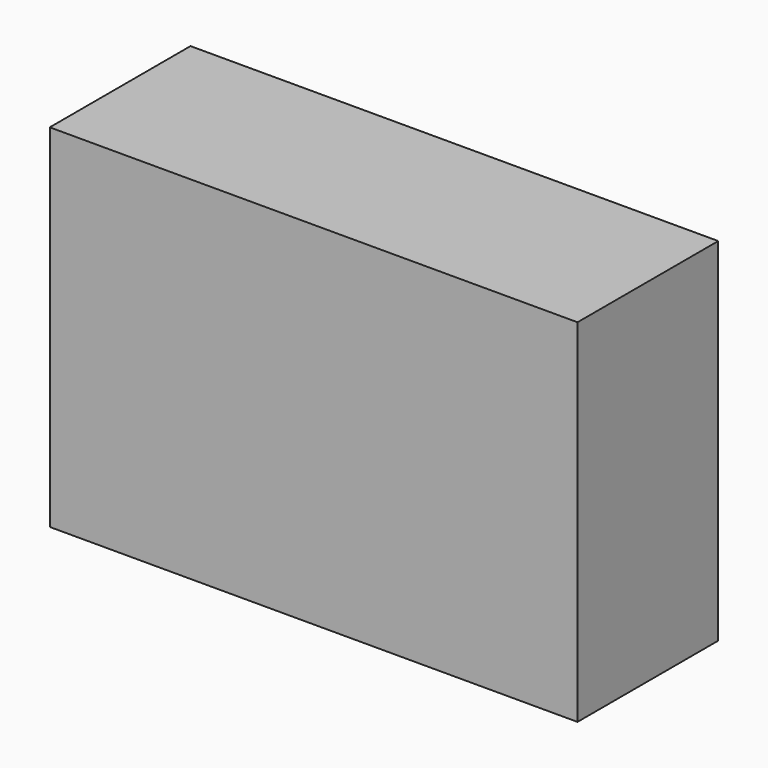
from build123d import *

# Parameters (mm, degrees)
F0_W     = 1500
F0_H     = 1000
F1_DEPTH = 500
F3_W     = 1500
F3_H     = 1000
F4_DEPTH = 50


with BuildPart() as f1:
    # F0 (on Front) → F1 (new body)
    with BuildSketch(Plane.XZ):
        Rectangle(F0_W, F0_H)
    extrude(amount=F1_DEPTH)


with BuildPart() as f4:
    # F3 (on face) → F4 (new body)
    with BuildSketch(Plane.XZ.offset(500)):
        with Locations((-1584.334999, 500)):
            Rectangle(F3_W, F3_H)
    extrude(amount=F4_DEPTH)


solid = f1.part
